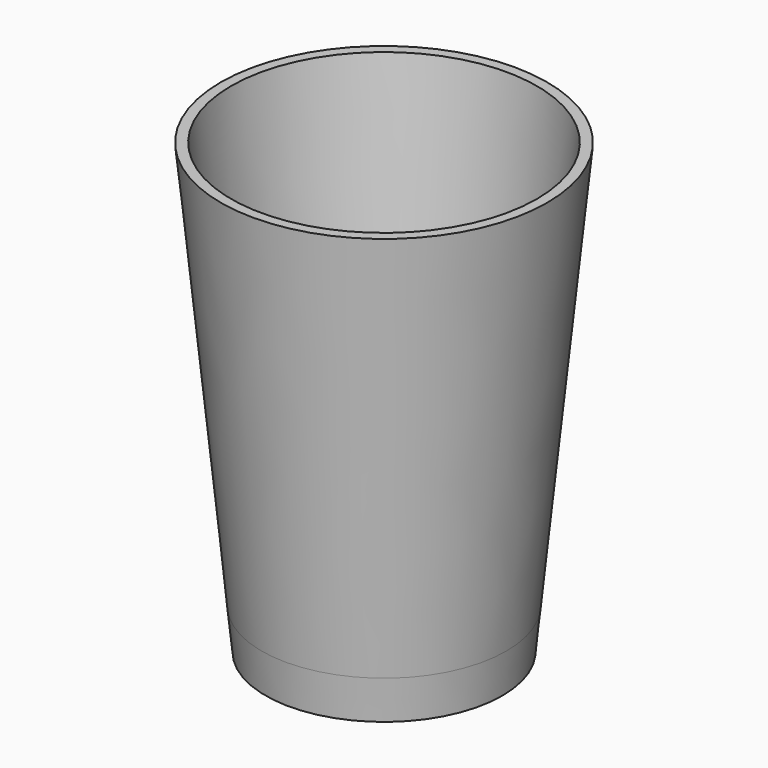
from build123d import *

# Parameters (mm, degrees)
F2_T = -2.5


with BuildPart() as f1:
    # F0 (on Front) → F1 (revolve)
    with BuildSketch(Plane.XZ):
        Polygon((40, 100), (0, 100), (0, 0), (28.995012, 0), (30, 0), align=None)
        Polygon((29.004963, -9.950372), (30, 0), (28.995012, 0), (28.009926, -9.850868), align=None)
    revolve(axis=Axis((0, 0, 50), (0, 0, -1)))

    # F2
    f2_openings = [f1.faces().sort_by_distance(p)[0] for p in [
        (0, 0, 100),
    ]]
    offset(amount=F2_T, openings=f2_openings)


solid = f1.part
